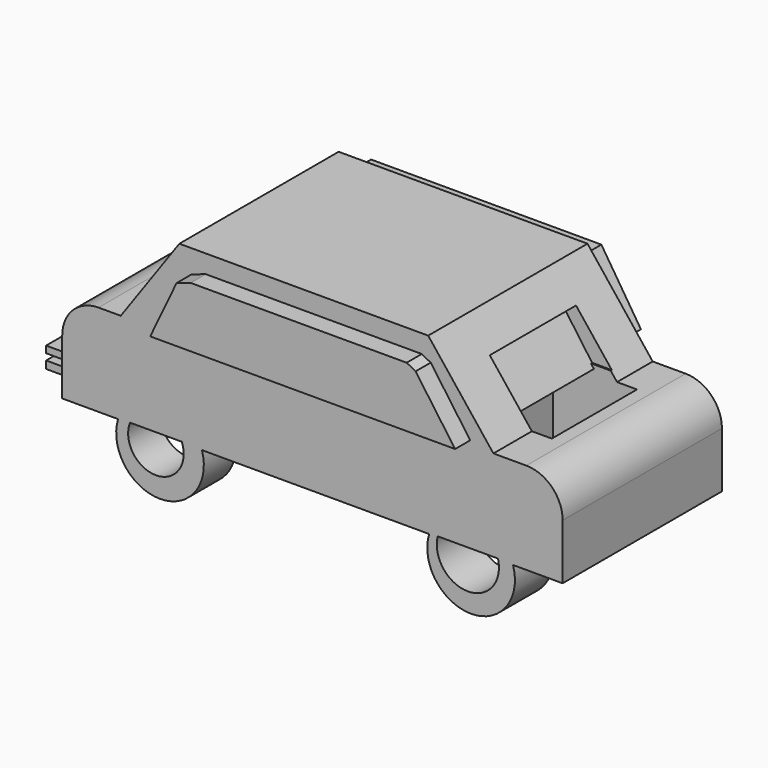
from build123d import *

# Parameters (mm, degrees)
F1_DEPTH  = 34.798
F2_W      = 14.652997
F2_H      = 18.606977
F2_W_2    = 15.350757
F2_H_2    = 20.002499
F3_DEPTH  = 33.02
F4_W      = 19.40675
F4_H      = 9.867839
F5_DEPTH  = 230.124
F6_W      = 18.839565
F6_H      = 7.907965
F7_DEPTH  = 125.476
F9_DEPTH  = 83.566
F11_DEPTH = 38.1
F13_DEPTH = 5.334
F14_W     = 30.701512
F14_H     = 3.605101
F15_DEPTH = 51.562
F16_W     = 3.986457
F16_H     = 1.545359
F17_DEPTH = 90.932
F18_W     = 3.111688
F18_H     = 1.106378
F19_DEPTH = 112.1664


with BuildPart() as f1:
    # F0 (on Front) → F1 (new body)
    with BuildSketch(Plane.XZ):
        Polygon((-26.631236, 9.187195), (-36.865074, -5.233212), (28.259346, -5.233212), (16.862571, 9.187195), align=None)
        with BuildLine():
            Line((-36.865074, -5.233212), (-40.748909, -5.233212))
            ThreePointArc((-40.748909, -5.233212), (-45.239037, -7.093084), (-47.098909, -11.583212))
            Line((-47.098909, -11.583212), (-47.098909, -21.28173))
            Line((-47.098909, -21.28173), (-37.335627, -21.28173))
            ThreePointArc((-37.335627, -21.28173), (-30.008619, -31.171456), (-22.681611, -21.28173))
            Line((-22.681611, -21.28173), (17.029377, -21.28173))
            ThreePointArc((17.029377, -21.28173), (24.356385, -31.171456), (31.683393, -21.28173))
            Line((31.683393, -21.28173), (40.353883, -21.28173))
            Line((40.353883, -21.28173), (40.353883, -11.583212))
            ThreePointArc((40.353883, -11.583212), (38.494011, -7.093084), (34.003883, -5.233212))
            Line((34.003883, -5.233212), (28.259346, -5.233212))
            Line((28.259346, -5.233212), (-36.865074, -5.233212))
        make_face()
    extrude(amount=F1_DEPTH)

    # F2 (on Top) → F3 (cut)
    with BuildSketch(Plane.XY):
        with Locations((24.421658, -17.09516)):
            Rectangle(F2_W, F2_H)
        with Locations((-29.887457, -17.792921)):
            Rectangle(F2_W_2, F2_H_2)
    extrude(amount=-F3_DEPTH, mode=Mode.SUBTRACT)

    # F4 (on Right) → F5 (cut)
    with BuildSketch(Plane.YZ):
        with Locations((-17.967003, 0.447439)):
            Rectangle(F4_W, F4_H)
    extrude(amount=-F5_DEPTH, mode=Mode.SUBTRACT)

    # F6 (on Right) → F7 (cut)
    with BuildSketch(Plane.YZ):
        with Locations((-16.978866, 0.116294)):
            Rectangle(F6_W, F6_H)
    extrude(amount=F7_DEPTH, mode=Mode.SUBTRACT)

    # F8 (on Front) → F9 (cut)
    with BuildSketch(Plane.XZ):
        with BuildLine():
            Line((-26.203193, -21.146845), (-35.248715, -21.146845))
            ThreePointArc((-35.248715, -21.146845), (-30.725954, -27.770875), (-26.203193, -21.146845))
        make_face()
        with BuildLine():
            ThreePointArc((18.531013, -21.146845), (23.793861, -27.908914), (29.056709, -21.146845))
            Line((29.056709, -21.146845), (18.531013, -21.146845))
        make_face()
    extrude(amount=F9_DEPTH, mode=Mode.SUBTRACT)

    # F10 (on Front) → F11 (join)
    with BuildSketch(Plane.XZ):
        Polygon((-24.474356, 5.173787), (-29.079348, -4.529587), (24.206989, -4.529587), (17.299499, 5.173787), (15.737092, 5.996108), (-22.007396, 5.996108), align=None)
    extrude(amount=F11_DEPTH)

    # F12 (on Front) → F13 (join)
    with BuildSketch(Plane.XZ):
        Polygon((21.933926, -4.508358), (15.019068, 6.278823), (-25.225412, 6.278823), (-32.278571, -4.508358), align=None)
    extrude(amount=-F13_DEPTH)

    # F14 (on Right) → F15 (join)
    with BuildSketch(Plane.YZ):
        with Locations((-17.393864, -17.231901)):
            Rectangle(F14_W, F14_H)
    extrude(amount=-F15_DEPTH)

    # F16 (on Right) → F17 (cut)
    with BuildSketch(Plane.YZ):
        with Locations((-2.872, -17.325192)):
            Rectangle(F16_W, F16_H)
    extrude(amount=-F17_DEPTH, mode=Mode.SUBTRACT)

    # F18 (on Right) → F19 (cut)
    with BuildSketch(Plane.YZ):
        with Locations((-31.648566, -17.165717)):
            Rectangle(F18_W, F18_H)
    extrude(amount=-F19_DEPTH, mode=Mode.SUBTRACT)


solid = f1.part
